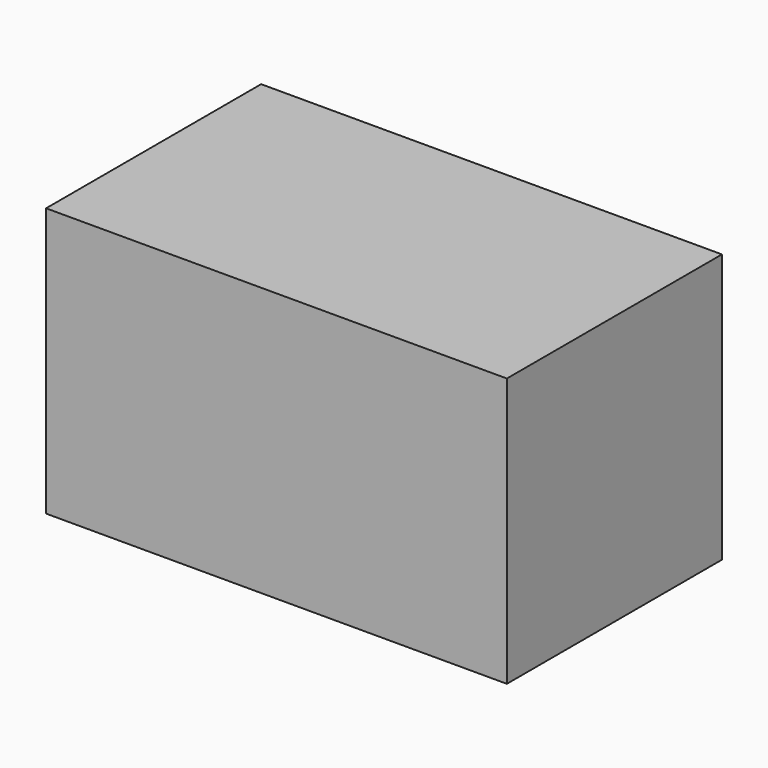
from build123d import *

# Parameters (mm, degrees)
F0_W      = 44.45
F0_H      = 44.45
F1_DEPTH  = 25.4
F2_DEPTH  = 25.4
F1_FACE_W = 44.45
F1_FACE_H = 44.45
F3_DEPTH  = 76.2


with BuildPart() as f1:
    # F0 (on Right) → F1 (new body)
    with BuildSketch(Plane.YZ):
        with Locations((-22.225, 22.225)):
            Rectangle(F0_W, F0_H)
    extrude(amount=F1_DEPTH)

    # F0 (on Right) → F2 (join)
    with BuildSketch(Plane.YZ):
        with Locations((-22.225, 22.225)):
            Rectangle(F0_W, F0_H)
    extrude(amount=F2_DEPTH)

    # F1_face (on face) → F3 (join)
    with BuildSketch(Plane(origin=(25.4, -22.225, 22.225), x_dir=(0, 1, 0), z_dir=(1, 0, 0))):
        Rectangle(F1_FACE_W, F1_FACE_H)
    extrude(amount=-F3_DEPTH)


solid = f1.part
